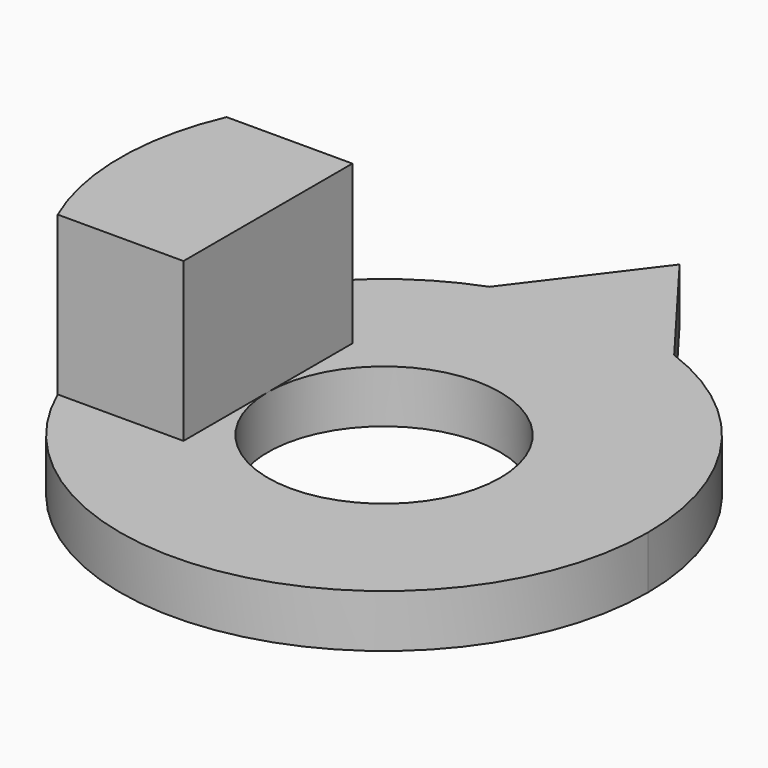
from build123d import *

# Parameters (mm, degrees)
F0_R     = 2.2
F1_DEPTH = 1
F3_DEPTH = 3


with BuildPart() as f1:
    # F0 (on Top) → F1 (new body)
    with BuildSketch(Plane.XY):
        with BuildLine():
            ThreePointArc((-1.75, 4.683748), (-2.850439, -4.107919), (5, 0))
            ThreePointArc((5, 0), (4.107919, 2.850439), (1.75, 4.683748))
            ThreePointArc((1.75, 4.683748), (0, 5), (-1.75, 4.683748))
        make_face()
        Circle(F0_R, mode=Mode.SUBTRACT)
        with BuildLine():
            ThreePointArc((-1.75, 4.683748), (0, 5), (1.75, 4.683748))
            Line((1.75, 4.683748), (0, 7))
            Line((0, 7), (-1.75, 4.683748))
        make_face()
    extrude(amount=F1_DEPTH)

    # F2 (on face) → F3 (join)
    with BuildSketch(Plane.XY.offset(1)):
        with BuildLine():
            Line((-2.2, 2), (-4.582576, 2))
            ThreePointArc((-4.582576, 2), (-5, 0), (-4.582576, -2))
            Line((-4.582576, -2), (-2.2, -2))
            Line((-2.2, -2), (-2.2, 2))
        make_face()
    extrude(amount=F3_DEPTH)


solid = f1.part
